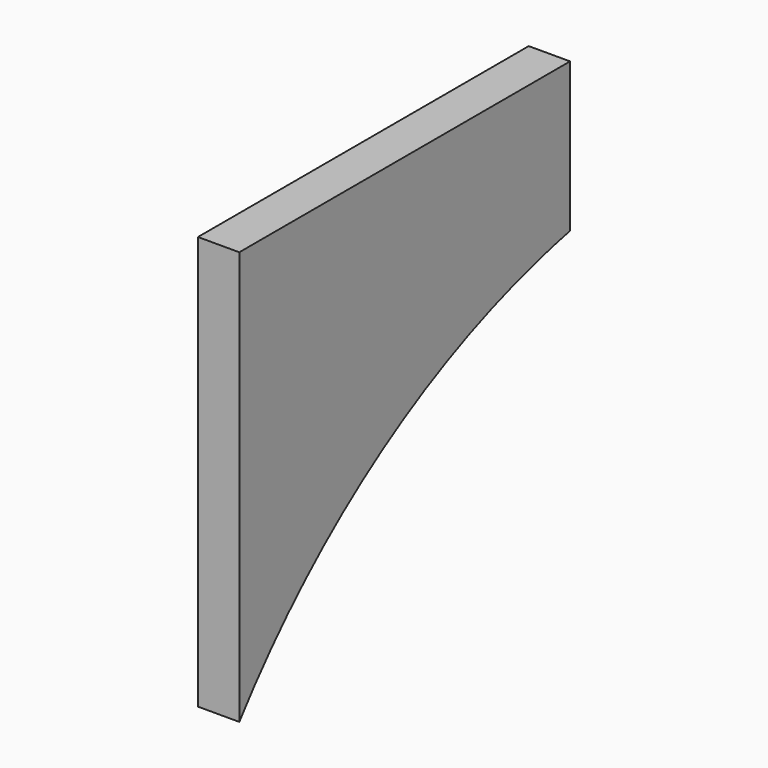
from build123d import *

# Parameters (mm, degrees)
F0_W     = 5
F0_H     = 50
F2_W     = 5
F2_H     = 30
F5_DEPTH = 25


with BuildPart() as f3:
    # F0 (on Front) → F3 section 0
    with BuildSketch(Plane.XZ):
        Rectangle(F0_W, F0_H)
    # F2 (on offset) → F3 section 1
    with BuildSketch(Plane.XZ.offset(-50)):
        with Locations((0, 10)):
            Rectangle(F2_W, F2_H)
    loft()

    # F4 (on face) → F5 (cut)
    with BuildSketch(Plane(origin=(-2.5, 0, 0), x_dir=(0, -1, 0), z_dir=(-1, 0, 0))):
        with BuildLine():
            Line((-50, -5), (0, -25))
            ThreePointArc((0, -25), (-22.120749, -4.516694), (-50, 6.956785))
            Line((-50, 6.956785), (-50, -5))
        make_face()
    extrude(amount=-F5_DEPTH, mode=Mode.SUBTRACT)


solid = f3.part
